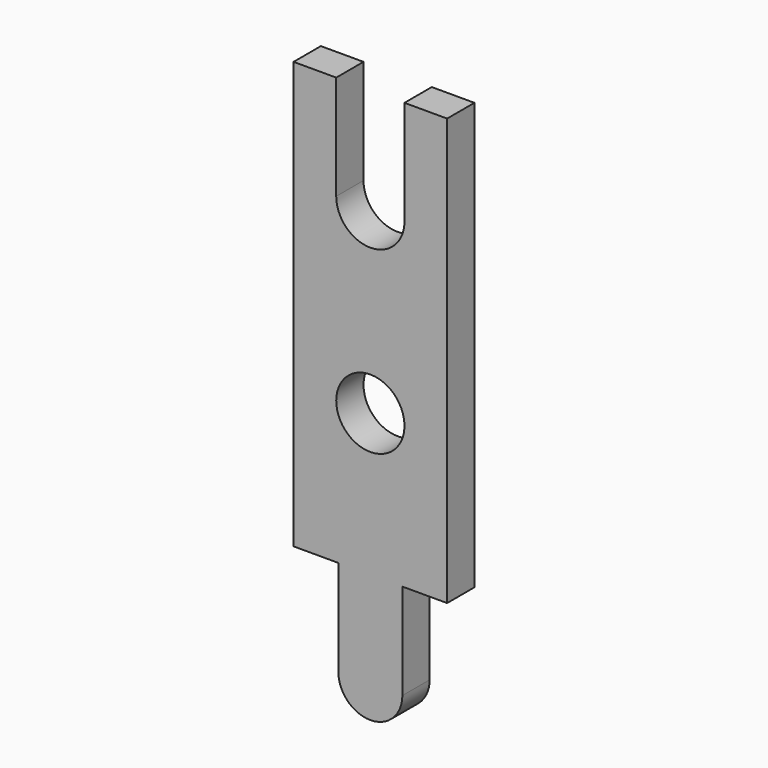
from build123d import *

# Parameters (mm, degrees)
SKETCH_R  = 0.4
PAD_DEPTH = 0.2


with BuildPart() as part:
    # Sketch → Pad (new body, symmetric)
    with BuildSketch(Plane(origin=(0, 0, 0), x_dir=(-1, 0, 0), z_dir=(0, 1, 0))):
        with BuildLine():
            Line((-0.9, 5), (-0.9, 0))
            Line((-0.9, 0), (-0.375, 0))
            Line((-0.375, 0), (-0.375, -1.125))
            ThreePointArc((-0.375, -1.125), (0, -1.5), (0.375, -1.125))
            Line((0.375, 0), (0.375, -1.125))
            Line((0.375, 0), (0.9, 0))
            Line((0.9, 0), (0.9, 5))
            Line((0.9, 5), (0.4, 5))
            Line((0.4, 5), (0.4, 3.775))
            ThreePointArc((-0.4, 3.775), (0, 3.375), (0.4, 3.775))
            Line((-0.4, 3.775), (-0.4, 5))
            Line((-0.4, 5), (-0.9, 5))
        make_face()
        with Locations((0, 1.6665)):
            Circle(SKETCH_R, mode=Mode.SUBTRACT)
    extrude(amount=PAD_DEPTH, both=True)


solid = part.part
